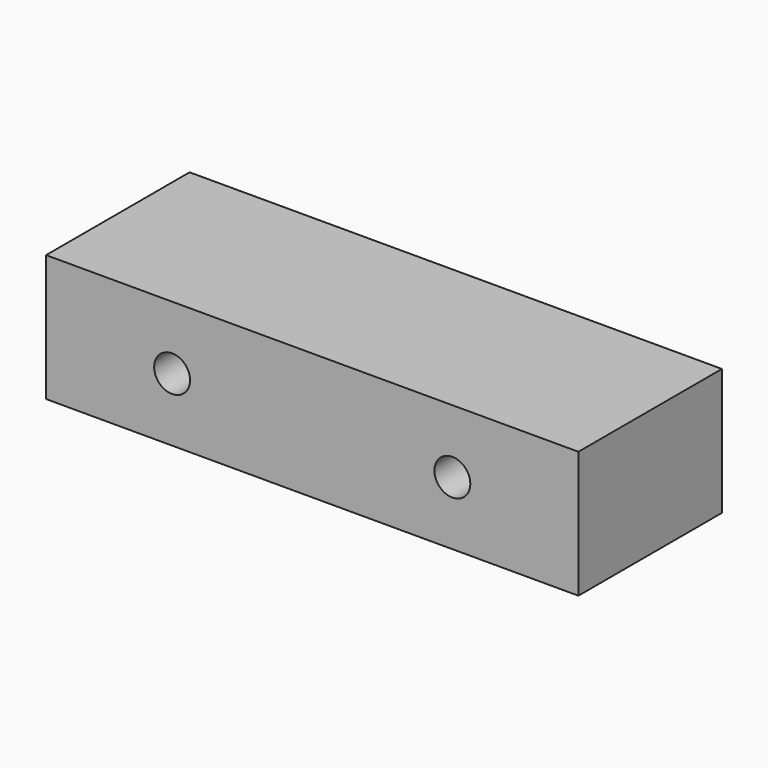
from build123d import *

# Parameters (mm, degrees)
F0_R     = 2.54
F1_DEPTH = 25.4


with BuildPart() as f1:
    # F0 (on Front) → F1 (new body)
    with BuildSketch(Plane.XZ):
        Polygon((19.84375, 8.972826), (-19.84375, 8.972826), (-37.68811, 8.972826), (-37.68811, -8.972826), (-19.84375, -8.972826), (19.84375, -8.972826), (37.68811, -8.972826), (37.68811, 8.972826), align=None)
        with Locations((-19.84375, 0)):
            Circle(F0_R, mode=Mode.SUBTRACT)
        with Locations((19.84375, 0)):
            Circle(F0_R, mode=Mode.SUBTRACT)
    extrude(amount=F1_DEPTH)


solid = f1.part
